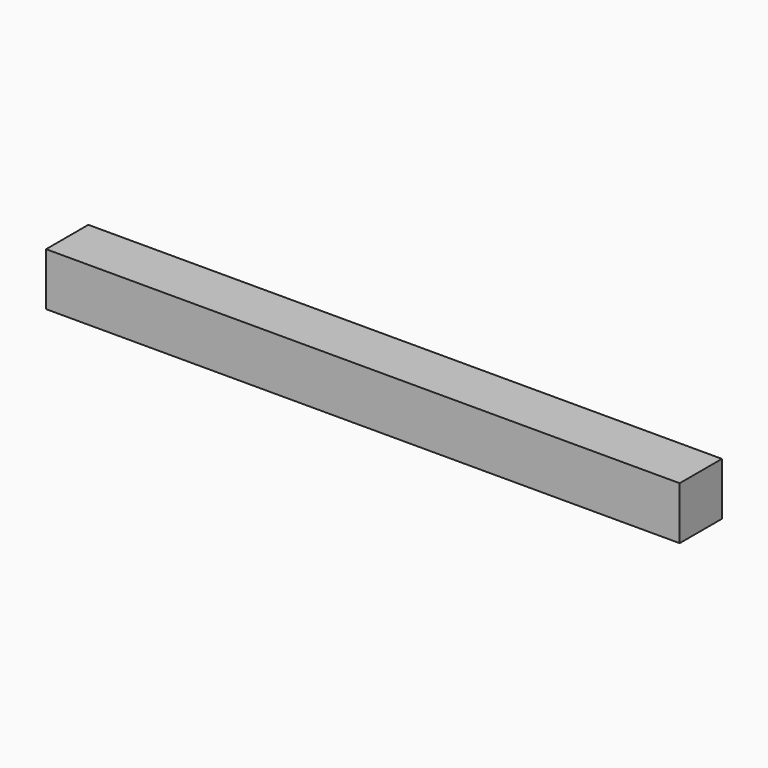
from build123d import *

# Parameters (mm, degrees)
F1_DEPTH = 50.8


with BuildPart() as f1:
    # F0 (on Front) → F1 (new body)
    with BuildSketch(Plane.XZ):
        with BuildLine():
            Line((0, 25.4), (0, 0))
            Line((0, 0), (609.6, 0))
            Line((609.6, 0), (609.6, 50.8))
            Line((609.6, 50.8), (198.844787, 50.8))
            add(Edge.make_bspline(
                [(0, 25.4), (3.924521, 24.755946), (86.45491, 24.025598), (154.724142, 36.907095), (198.844787, 50.8)],
                knots=[0, 0, 0, 0, 48.661616, 175.232895, 175.232895, 175.232895, 175.232895], degree=3))
        make_face()
        with BuildLine():
            Line((0, 50.8), (0, 25.4))
            add(Edge.make_bspline(
                [(0, 25.4), (3.924521, 24.755946), (86.45491, 24.025598), (154.724142, 36.907095), (198.844787, 50.8)],
                knots=[0, 0, 0, 0, 48.661616, 175.232895, 175.232895, 175.232895, 175.232895], degree=3))
            Line((198.844787, 50.8), (0, 50.8))
        make_face()
    extrude(amount=F1_DEPTH)


solid = f1.part
